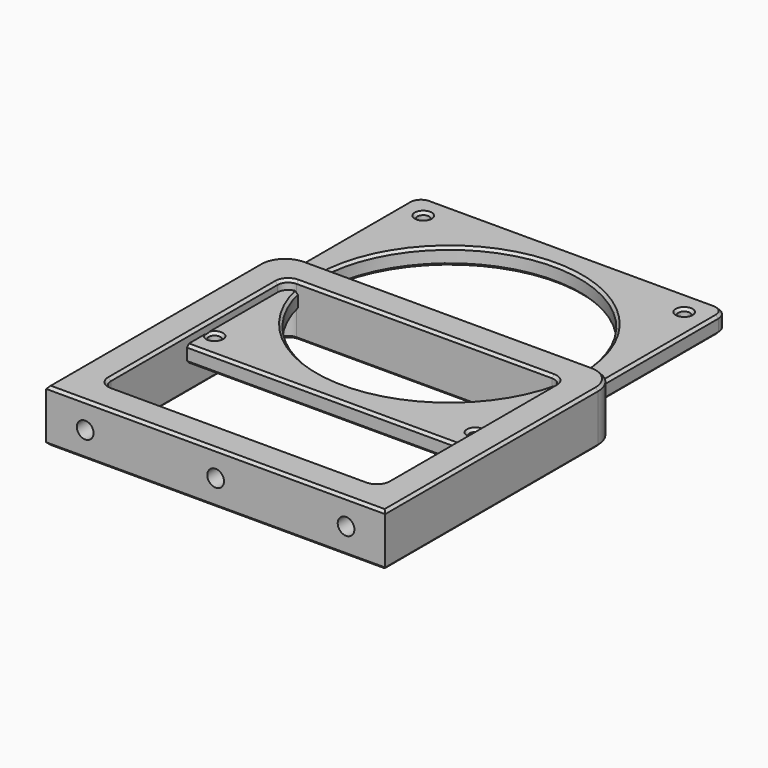
from build123d import *

# Parameters (mm, degrees)
SKETCH_R        = 2.25
SKETCH_R_2      = 50
PAD_DEPTH       = 6.5
CHAMFER_SIZE    = 1
SKETCH005_W     = 130
SKETCH005_H     = 20
PAD001_DEPTH    = 112
SKETCH006_R     = 3.2
POCKET_DEPTH    = 10
POCKET001_DEPTH = 20.001
FILLET_R        = 10
CHAMFER001_SIZE = 1


with BuildPart() as spacer:
    # Sketch → Pad (new body)
    with BuildSketch(Plane.XY):
        with BuildLine():
            Line((-59.5, 54.5), (-59.5, -54.5))
            ThreePointArc((-59.5, -54.5), (-58.035534, -58.035534), (-54.5, -59.5))
            Line((-54.5, -59.5), (54.5, -59.5))
            ThreePointArc((54.5, -59.5), (58.035534, -58.035534), (59.5, -54.5))
            Line((59.5, -54.5), (59.5, 54.5))
            ThreePointArc((59.5, 54.5), (58.035534, 58.035534), (54.5, 59.5))
            Line((54.5, 59.5), (-54.5, 59.5))
            ThreePointArc((-54.5, 59.5), (-58.035534, 58.035534), (-59.5, 54.5))
        make_face()
        with Locations((-50, 50)):
            Circle(SKETCH_R, mode=Mode.SUBTRACT)
        with Locations((50, 50)):
            Circle(SKETCH_R, mode=Mode.SUBTRACT)
        with Locations((50, -50)):
            Circle(SKETCH_R, mode=Mode.SUBTRACT)
        with Locations((-50, -50)):
            Circle(SKETCH_R, mode=Mode.SUBTRACT)
        Circle(SKETCH_R_2, mode=Mode.SUBTRACT)
    extrude(amount=PAD_DEPTH)

    # Chamfer
    chamfer_edges = [spacer.edges().sort_by_distance(p)[0] for p in [
        (-59.5, 0, 6.5),
        (-58.035534, -58.035534, 6.5),
        (0, -59.5, 6.5),
        (58.035534, -58.035534, 6.5),
        (59.5, 0, 6.5),
        (58.035534, 58.035534, 6.5),
        (0, 59.5, 6.5),
        (-58.035534, 58.035534, 6.5),
        (-50, 0, 6.5),
        (-52.25, -50, 6.5),
        (47.75, -50, 6.5),
        (47.75, 50, 6.5),
        (-52.25, 50, 6.5),
        (-59.5, 0, 0),
        (-58.035534, -58.035534, 0),
        (0, -59.5, 0),
        (58.035534, -58.035534, 0),
        (59.5, 0, 0),
        (58.035534, 58.035534, 0),
        (0, 59.5, 0),
        (-58.035534, 58.035534, 0),
        (-50, 0, 0),
        (-52.25, -50, 0),
        (47.75, -50, 0),
        (47.75, 50, 0),
        (-52.25, 50, 0),
    ]]
    chamfer(chamfer_edges, length=CHAMFER_SIZE)


with BuildPart() as riser:
    # Sketch005 → Pad001 (new body)
    with BuildSketch(Plane.XZ):
        Rectangle(SKETCH005_W, SKETCH005_H)
    extrude(amount=PAD001_DEPTH)

    # Sketch006 (on Face6 of Pad001) → Pocket (cut)
    with BuildSketch(Plane.XZ.offset(112)):
        Circle(SKETCH006_R)
        with Locations((50, 0)):
            Circle(SKETCH006_R)
        with Locations((-50, 0)):
            Circle(SKETCH006_R)
    extrude(amount=-POCKET_DEPTH, mode=Mode.SUBTRACT)

    # Sketch007 (on Face3 of Pocket) → Pocket001 (cut, through all)
    with BuildSketch(Plane(origin=(0, 0, -10), x_dir=(1, 0, 0), z_dir=(0, 0, -1))):
        with BuildLine():
            Line((-53, 96), (-53, 16))
            ThreePointArc((-53, 16), (-51.828427, 13.171573), (-49, 12))
            Line((-49, 12), (49, 12))
            ThreePointArc((49, 12), (51.828427, 13.171573), (53, 16))
            Line((53, 16), (53, 96))
            ThreePointArc((53, 96), (51.828427, 98.828427), (49, 100))
            Line((49, 100), (-49, 100))
            ThreePointArc((-49, 100), (-51.828427, 98.828427), (-53, 96))
        make_face()
    extrude(amount=-POCKET001_DEPTH, mode=Mode.SUBTRACT)

    # Fillet
    fillet_edges = [riser.edges().sort_by_distance(p)[0] for p in [
        (-65, 0, 0),
        (65, 0, 0),
    ]]
    fillet(fillet_edges, radius=FILLET_R)

    # Chamfer001
    chamfer001_edges = [riser.edges().sort_by_distance(p)[0] for p in [
        (-65, -61, -10),
        (-62.071068, -2.928932, -10),
        (0, -112, -10),
        (0, 0, -10),
        (65, -61, -10),
        (62.071068, -2.928932, -10),
        (-51.828427, -98.828427, -10),
        (0, -100, -10),
        (51.828427, -98.828427, -10),
        (53, -56, -10),
        (51.828427, -13.171573, -10),
        (0, -12, -10),
        (-51.828427, -13.171573, -10),
        (-53, -56, -10),
        (65, -61, 10),
        (62.071068, -2.928932, 10),
        (0, -112, 10),
        (0, 0, 10),
        (-65, -61, 10),
        (-62.071068, -2.928932, 10),
        (-53, -56, 10),
        (-51.828427, -13.171573, 10),
        (0, -12, 10),
        (51.828427, -13.171573, 10),
        (53, -56, 10),
        (51.828427, -98.828427, 10),
        (0, -100, 10),
        (-51.828427, -98.828427, 10),
    ]]
    chamfer(chamfer001_edges, length=CHAMFER001_SIZE)


solid = Compound([spacer.part, riser.part])
